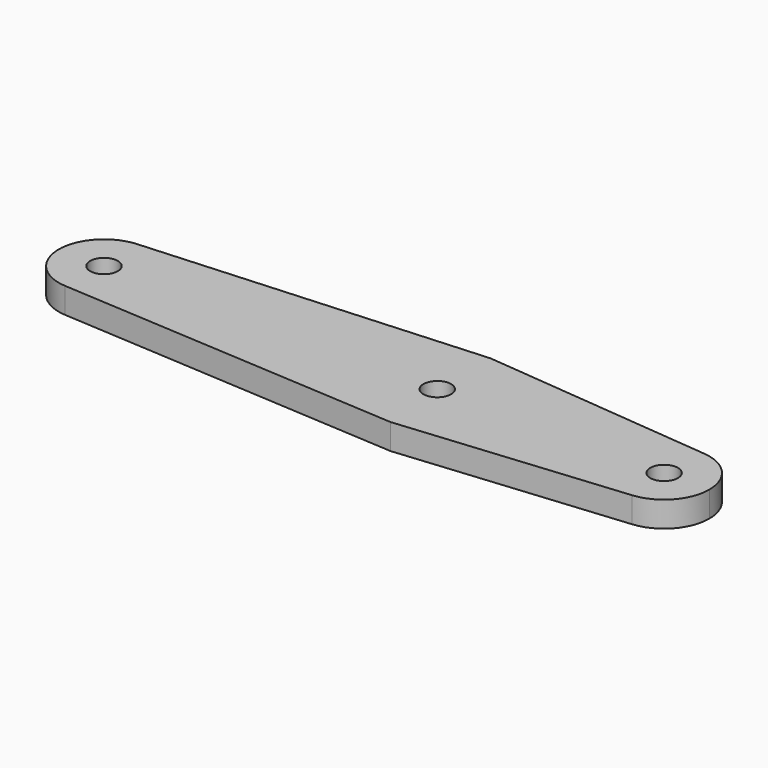
from build123d import *

# Parameters (mm, degrees)
F0_R     = 1.651
F1_DEPTH = 3.048


with BuildPart() as f1:
    # F0 (on Top) → F1 (new body)
    with BuildSketch(Plane.XY):
        with BuildLine():
            ThreePointArc((-40.082874, -5.387287), (-36.053588, -3.932194), (-34.3535, 0))
            ThreePointArc((-34.3535, 0), (-35.984025, 3.865606), (-39.890474, 5.395698))
            ThreePointArc((-39.890474, 5.395698), (-45.147641, 0.096292), (-40.082874, -5.387287))
        make_face()
        with Locations((-39.751, 0)):
            Circle(F0_R, mode=Mode.SUBTRACT)
        with BuildLine():
            ThreePointArc((-39.890474, 5.395698), (-35.984025, 3.865606), (-34.3535, 0))
            ThreePointArc((-34.3535, 0), (-36.053588, -3.932194), (-40.082874, -5.387287))
            Line((-40.082874, -5.387287), (0.745306, -7.902432))
            Line((0.745306, -7.902432), (27.55415, -5.373997))
            ThreePointArc((27.55415, -5.373997), (21.6535, 0), (27.55415, 5.373997))
            Line((27.55415, 5.373997), (0, 7.953804))
            Line((0, 7.953804), (-39.890474, 5.395698))
        make_face()
        Circle(F0_R, mode=Mode.SUBTRACT)
        with BuildLine():
            ThreePointArc((32.4485, 0), (31.041536, 3.634367), (27.55415, 5.373997))
            ThreePointArc((27.55415, 5.373997), (21.6535, 0), (27.55415, -5.373997))
            ThreePointArc((27.55415, -5.373997), (31.041536, -3.634367), (32.4485, 0))
        make_face()
        with Locations((27.051, 0)):
            Circle(F0_R, mode=Mode.SUBTRACT)
        with BuildLine():
            ThreePointArc((-39.890474, 5.395698), (-35.984025, 3.865606), (-34.3535, 0))
            ThreePointArc((-34.3535, 0), (-36.053588, -3.932194), (-40.082874, -5.387287))
            Line((-40.082874, -5.387287), (0.745306, -7.902432))
            Line((0.745306, -7.902432), (27.55415, -5.373997))
            ThreePointArc((27.55415, -5.373997), (21.6535, 0), (27.55415, 5.373997))
            Line((27.55415, 5.373997), (0, 7.953804))
            Line((0, 7.953804), (-39.890474, 5.395698))
        make_face()
        Circle(F0_R, mode=Mode.SUBTRACT)
    extrude(amount=F1_DEPTH)


solid = f1.part
